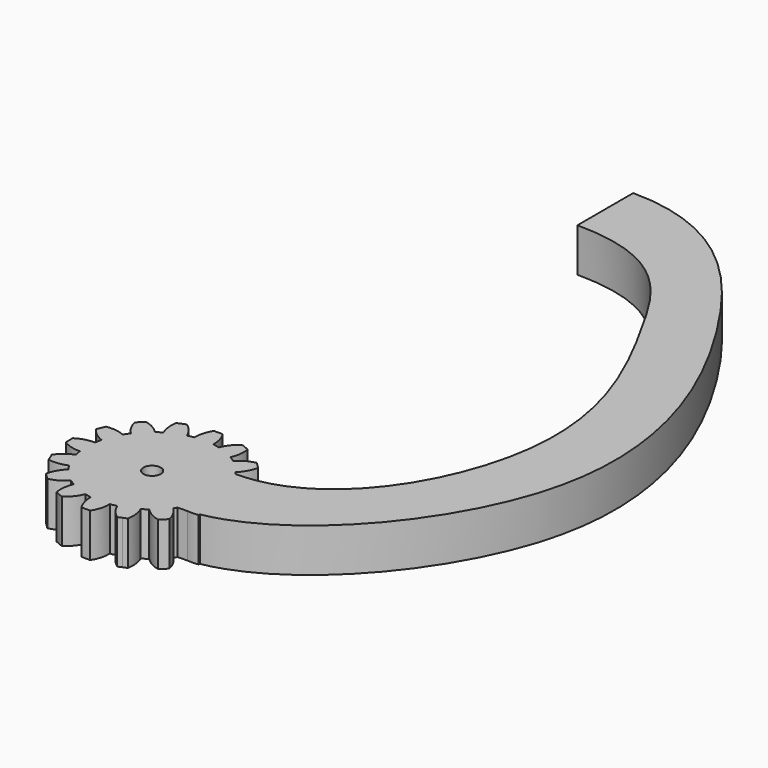
from build123d import *

# Parameters (mm, degrees)
F1_DEPTH = 5
F2_R     = 1
F3_DEPTH = 5.001
F5_DEPTH = 5


with BuildPart() as f1:
    # F0 (on Top) → F1 (new body)
    with BuildSketch(Plane.XY):
        with BuildLine():
            ThreePointArc((7.4206173165, -1.0883191822), (7.4801280027, -0.5456052265), (7.5, 0))
            ThreePointArc((7.5, 0), (7.4801280027, 0.5456052265), (7.4206173165, 1.0883191822))
            ThreePointArc((7.4206173165, 1.0883191822), (7.355889603, 1.4631774151), (7.2722381774, 1.8342714877))
            ThreePointArc((7.2722381774, 1.8342714877), (6.9290964938, 2.8701257427), (6.4392747372, 3.8452231222))
            ThreePointArc((6.4392747372, 3.8452231222), (6.2360220923, 4.1667767476), (6.0167266989, 4.4776109513))
            ThreePointArc((6.0167266989, 4.4776109513), (5.3033008589, 5.3033008589), (4.4776109513, 6.0167266989))
            ThreePointArc((4.4776109513, 6.0167266989), (4.1667767476, 6.2360220923), (3.8452231222, 6.4392747372))
            ThreePointArc((3.8452231222, 6.4392747372), (2.8701257427, 6.9290964938), (1.8342714877, 7.2722381774))
            ThreePointArc((1.8342714877, 7.2722381774), (1.4631774151, 7.355889603), (1.0883191822, 7.4206173165))
            ThreePointArc((1.0883191822, 7.4206173165), (0, 7.5), (-1.0883191822, 7.4206173165))
            ThreePointArc((-1.0883191822, 7.4206173165), (-1.4631774151, 7.355889603), (-1.8342714877, 7.2722381774))
            ThreePointArc((-1.8342714877, 7.2722381774), (-2.8701257427, 6.9290964938), (-3.8452231222, 6.4392747372))
            ThreePointArc((-3.8452231222, 6.4392747372), (-4.1667767476, 6.2360220923), (-4.4776109513, 6.0167266989))
            ThreePointArc((-4.4776109513, 6.0167266989), (-5.3033008589, 5.3033008589), (-6.0167266989, 4.4776109513))
            ThreePointArc((-6.0167266989, 4.4776109513), (-6.2360220923, 4.1667767476), (-6.4392747372, 3.8452231222))
            ThreePointArc((-6.4392747372, 3.8452231222), (-6.9290964938, 2.8701257427), (-7.2722381774, 1.8342714877))
            ThreePointArc((-7.2722381774, 1.8342714877), (-7.355889603, 1.4631774151), (-7.4206173165, 1.0883191822))
            ThreePointArc((-7.4206173165, 1.0883191822), (-7.5, 0), (-7.4206173165, -1.0883191822))
            ThreePointArc((-7.4206173165, -1.0883191822), (-7.355889603, -1.4631774151), (-7.2722381774, -1.8342714877))
            ThreePointArc((-7.2722381774, -1.8342714877), (-6.9290964938, -2.8701257427), (-6.4392747372, -3.8452231222))
            ThreePointArc((-6.4392747372, -3.8452231222), (-6.2360220923, -4.1667767476), (-6.0167266989, -4.4776109513))
            ThreePointArc((-6.0167266989, -4.4776109513), (-5.3033008589, -5.3033008589), (-4.4776109513, -6.0167266989))
            ThreePointArc((-4.4776109513, -6.0167266989), (-4.1667767476, -6.2360220923), (-3.8452231222, -6.4392747372))
            ThreePointArc((-3.8452231222, -6.4392747372), (-2.8701257427, -6.9290964938), (-1.8342714877, -7.2722381774))
            ThreePointArc((-1.8342714877, -7.2722381774), (-1.4631774151, -7.355889603), (-1.0883191822, -7.4206173165))
            ThreePointArc((-1.0883191822, -7.4206173165), (0, -7.5), (1.0883191822, -7.4206173165))
            ThreePointArc((1.0883191822, -7.4206173165), (1.4631774151, -7.355889603), (1.8342714877, -7.2722381774))
            ThreePointArc((1.8342714877, -7.2722381774), (2.8701257427, -6.9290964938), (3.8452231222, -6.4392747372))
            ThreePointArc((3.8452231222, -6.4392747372), (4.1667767476, -6.2360220923), (4.4776109513, -6.0167266989))
            ThreePointArc((4.4776109513, -6.0167266989), (5.3033008589, -5.3033008589), (6.0167266989, -4.4776109513))
            ThreePointArc((6.0167266989, -4.4776109513), (6.2360220923, -4.1667767476), (6.4392747372, -3.8452231222))
            ThreePointArc((6.4392747372, -3.8452231222), (6.9290964938, -2.8701257427), (7.2722381774, -1.8342714877))
            ThreePointArc((7.2722381774, -1.8342714877), (7.355889603, -1.4631774151), (7.4206173165, -1.0883191822))
        make_face()
        with BuildLine():
            ThreePointArc((7.4206173165, 1.0883191822), (7.4801280027, 0.5456052265), (7.5, 0))
            ThreePointArc((7.5, 0), (7.4801280027, -0.5456052265), (7.4206173165, -1.0883191822))
            ThreePointArc((7.4206173165, -1.0883191822), (8.5043518229, -0.9498278009), (9.5, -0.5))
            Line((9.5, -0.5), (9.5, 0))
            Line((9.5, 0), (9.5, 0.5))
            ThreePointArc((9.5, 0.5), (8.5043518229, 0.9498278009), (7.4206173165, 1.0883191822))
        make_face()
        with BuildLine():
            ThreePointArc((6.4392747372, 3.8452231222), (6.9290964938, 2.8701257427), (7.2722381774, 1.8342714877))
            ThreePointArc((7.2722381774, 1.8342714877), (8.2204799494, 2.376948081), (8.968197275, 3.1735528412))
            Line((8.968197275, 3.1735528412), (8.7768555589, 3.6354926075))
            Line((8.7768555589, 3.6354926075), (8.5855138427, 4.0974323737))
            ThreePointArc((8.5855138427, 4.0974323737), (7.4935132234, 4.1320010103), (6.4392747372, 3.8452231222))
        make_face()
        with BuildLine():
            ThreePointArc((8.968197275, -3.1735528412), (8.2204799494, -2.376948081), (7.2722381774, -1.8342714877))
            ThreePointArc((7.2722381774, -1.8342714877), (6.9290964938, -2.8701257427), (6.4392747372, -3.8452231222))
            ThreePointArc((6.4392747372, -3.8452231222), (7.4935132234, -4.1320010103), (8.5855138427, -4.0974323737))
            Line((8.5855138427, -4.0974323737), (8.7768555589, -3.6354926075))
            Line((8.7768555589, -3.6354926075), (8.968197275, -3.1735528412))
        make_face()
        with BuildLine():
            ThreePointArc((4.4776109513, 6.0167266989), (5.3033008589, 5.3033008589), (6.0167266989, 4.4776109513))
            ThreePointArc((6.0167266989, 4.4776109513), (6.6851145225, 5.3418551646), (7.0710678119, 6.3639610307))
            Line((7.0710678119, 6.3639610307), (6.7175144213, 6.7175144213))
            Line((6.7175144213, 6.7175144213), (6.3639610307, 7.0710678119))
            ThreePointArc((6.3639610307, 7.0710678119), (5.3418551646, 6.6851145225), (4.4776109513, 6.0167266989))
        make_face()
        with BuildLine():
            ThreePointArc((7.0710678119, -6.3639610307), (6.6851145225, -5.3418551646), (6.0167266989, -4.4776109513))
            ThreePointArc((6.0167266989, -4.4776109513), (5.3033008589, -5.3033008589), (4.4776109513, -6.0167266989))
            ThreePointArc((4.4776109513, -6.0167266989), (5.3418551646, -6.6851145225), (6.3639610307, -7.0710678119))
            Line((6.3639610307, -7.0710678119), (6.7175144213, -6.7175144213))
            Line((6.7175144213, -6.7175144213), (7.0710678119, -6.3639610307))
        make_face()
        with BuildLine():
            ThreePointArc((1.8342714877, 7.2722381774), (2.8701257427, 6.9290964938), (3.8452231222, 6.4392747372))
            ThreePointArc((3.8452231222, 6.4392747372), (4.1320010103, 7.4935132234), (4.0974323737, 8.5855138427))
            Line((4.0974323737, 8.5855138427), (3.6354926075, 8.7768555589))
            Line((3.6354926075, 8.7768555589), (3.1735528412, 8.968197275))
            ThreePointArc((3.1735528412, 8.968197275), (2.376948081, 8.2204799494), (1.8342714877, 7.2722381774))
        make_face()
        with BuildLine():
            ThreePointArc((4.0974323737, -8.5855138427), (4.1320010103, -7.4935132234), (3.8452231222, -6.4392747372))
            ThreePointArc((3.8452231222, -6.4392747372), (2.8701257427, -6.9290964938), (1.8342714877, -7.2722381774))
            ThreePointArc((1.8342714877, -7.2722381774), (2.376948081, -8.2204799494), (3.1735528412, -8.968197275))
            Line((3.1735528412, -8.968197275), (3.6354926075, -8.7768555589))
            Line((3.6354926075, -8.7768555589), (4.0974323737, -8.5855138427))
        make_face()
        with BuildLine():
            ThreePointArc((-1.0883191822, 7.4206173165), (0, 7.5), (1.0883191822, 7.4206173165))
            ThreePointArc((1.0883191822, 7.4206173165), (0.9498278009, 8.5043518229), (0.5, 9.5))
            Line((0.5, 9.5), (0, 9.5))
            Line((0, 9.5), (-0.5, 9.5))
            ThreePointArc((-0.5, 9.5), (-0.9498278009, 8.5043518229), (-1.0883191822, 7.4206173165))
        make_face()
        with BuildLine():
            ThreePointArc((0.5, -9.5), (0.9498278009, -8.5043518229), (1.0883191822, -7.4206173165))
            ThreePointArc((1.0883191822, -7.4206173165), (0, -7.5), (-1.0883191822, -7.4206173165))
            ThreePointArc((-1.0883191822, -7.4206173165), (-0.9498278009, -8.5043518229), (-0.5, -9.5))
            Line((-0.5, -9.5), (0, -9.5))
            Line((0, -9.5), (0.5, -9.5))
        make_face()
        with BuildLine():
            ThreePointArc((-3.8452231222, 6.4392747372), (-2.8701257427, 6.9290964938), (-1.8342714877, 7.2722381774))
            ThreePointArc((-1.8342714877, 7.2722381774), (-2.376948081, 8.2204799494), (-3.1735528412, 8.968197275))
            Line((-3.1735528412, 8.968197275), (-3.6354926075, 8.7768555589))
            Line((-3.6354926075, 8.7768555589), (-4.0974323737, 8.5855138427))
            ThreePointArc((-4.0974323737, 8.5855138427), (-4.1320010103, 7.4935132234), (-3.8452231222, 6.4392747372))
        make_face()
        with BuildLine():
            ThreePointArc((-3.1735528412, -8.968197275), (-2.376948081, -8.2204799494), (-1.8342714877, -7.2722381774))
            ThreePointArc((-1.8342714877, -7.2722381774), (-2.8701257427, -6.9290964938), (-3.8452231222, -6.4392747372))
            ThreePointArc((-3.8452231222, -6.4392747372), (-4.1320010103, -7.4935132234), (-4.0974323737, -8.5855138427))
            Line((-4.0974323737, -8.5855138427), (-3.6354926075, -8.7768555589))
            Line((-3.6354926075, -8.7768555589), (-3.1735528412, -8.968197275))
        make_face()
        with BuildLine():
            ThreePointArc((-6.0167266989, 4.4776109513), (-5.3033008589, 5.3033008589), (-4.4776109513, 6.0167266989))
            ThreePointArc((-4.4776109513, 6.0167266989), (-5.3418551646, 6.6851145225), (-6.3639610307, 7.0710678119))
            Line((-6.3639610307, 7.0710678119), (-6.7175144213, 6.7175144213))
            Line((-6.7175144213, 6.7175144213), (-7.0710678119, 6.3639610307))
            ThreePointArc((-7.0710678119, 6.3639610307), (-6.6851145225, 5.3418551646), (-6.0167266989, 4.4776109513))
        make_face()
        with BuildLine():
            ThreePointArc((-6.3639610307, -7.0710678119), (-5.3418551646, -6.6851145225), (-4.4776109513, -6.0167266989))
            ThreePointArc((-4.4776109513, -6.0167266989), (-5.3033008589, -5.3033008589), (-6.0167266989, -4.4776109513))
            ThreePointArc((-6.0167266989, -4.4776109513), (-6.6851145225, -5.3418551646), (-7.0710678119, -6.3639610307))
            Line((-7.0710678119, -6.3639610307), (-6.7175144213, -6.7175144213))
            Line((-6.7175144213, -6.7175144213), (-6.3639610307, -7.0710678119))
        make_face()
        with BuildLine():
            ThreePointArc((-7.2722381774, 1.8342714877), (-6.9290964938, 2.8701257427), (-6.4392747372, 3.8452231222))
            ThreePointArc((-6.4392747372, 3.8452231222), (-7.4935132234, 4.1320010103), (-8.5855138427, 4.0974323737))
            Line((-8.5855138427, 4.0974323737), (-8.7768555589, 3.6354926075))
            Line((-8.7768555589, 3.6354926075), (-8.968197275, 3.1735528412))
            ThreePointArc((-8.968197275, 3.1735528412), (-8.2204799494, 2.376948081), (-7.2722381774, 1.8342714877))
        make_face()
        with BuildLine():
            ThreePointArc((-8.5855138427, -4.0974323737), (-7.4935132234, -4.1320010103), (-6.4392747372, -3.8452231222))
            ThreePointArc((-6.4392747372, -3.8452231222), (-6.9290964938, -2.8701257427), (-7.2722381774, -1.8342714877))
            ThreePointArc((-7.2722381774, -1.8342714877), (-8.2204799494, -2.376948081), (-8.968197275, -3.1735528412))
            Line((-8.968197275, -3.1735528412), (-8.7768555589, -3.6354926075))
            Line((-8.7768555589, -3.6354926075), (-8.5855138427, -4.0974323737))
        make_face()
        with BuildLine():
            ThreePointArc((-7.4206173165, -1.0883191822), (-7.5, 0), (-7.4206173165, 1.0883191822))
            ThreePointArc((-7.4206173165, 1.0883191822), (-8.5043518229, 0.9498278009), (-9.5, 0.5))
            Line((-9.5, 0.5), (-9.5, 0))
            Line((-9.5, 0), (-9.5, -0.5))
            ThreePointArc((-9.5, -0.5), (-8.5043518229, -0.9498278009), (-7.4206173165, -1.0883191822))
        make_face()
    extrude(amount=F1_DEPTH)

    # F2 (on face) → F3 (cut, through all)
    with BuildSketch(Plane.XY.offset(5)):
        Circle(F2_R)
    extrude(amount=-F3_DEPTH, mode=Mode.SUBTRACT)

    # F4 (on Top) → F5 (join, through all)
    with BuildSketch(Plane.XY):
        with BuildLine():
            add(Edge.make_bspline(
                [(0, 69), (10, 69), (23.7810131415, 54.517068575), (38.2659269705, 20.3271174858), (16.2360220923, -4.1667767476), (6.2360220923, -4.1667767476)],
                knots=[0, 0, 0, 0, 0.3059494361, 0.6546300561, 1, 1, 1, 1], degree=3))
            Line((0, 69), (0, 61))
            add(Edge.make_bspline(
                [(0, 61), (10, 61), (17.158997377, 49.3115106265), (28.9620106824, 25.9258319124), (16.2360220923, 4.1667767476), (6.2360220923, 4.1667767476)],
                knots=[0, 0, 0, 0, 0.3077865037, 0.6473114919, 1, 1, 1, 1], degree=3))
            Line((6.2360220923, 4.1667767476), (6.2360220923, -4.1667767476))
        make_face()
    extrude(amount=F5_DEPTH)


solid = f1.part
